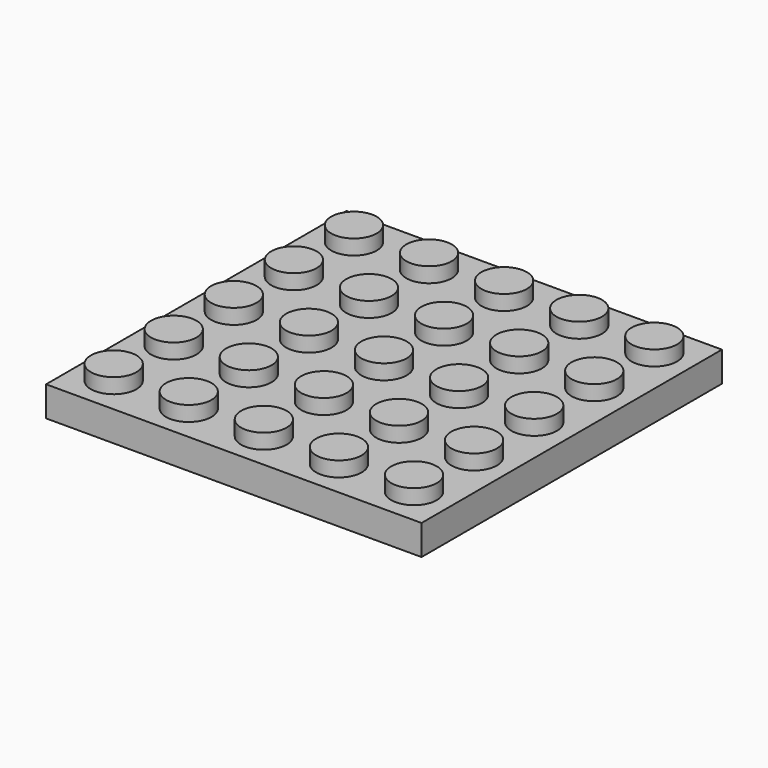
from build123d import *

# Parameters (mm, degrees)
F0_W     = 40
F0_H     = 40
F1_DEPTH = 3.2
F2_R     = 2.425
F3_DEPTH = 1.6


with BuildPart() as f1:
    # F0 (on Top) → F1 (new body)
    with BuildSketch(Plane.XY):
        Rectangle(F0_W, F0_H)
    extrude(amount=F1_DEPTH)

    # F2 (on face) → F3 (join)
    with BuildSketch(Plane.XY.offset(3.2)):
        with Locations((-16, -16)):
            Circle(F2_R)
        with Locations((-16, -8)):
            Circle(F2_R)
        with Locations((-16, 0)):
            Circle(F2_R)
        with Locations((-16, 8)):
            Circle(F2_R)
        with Locations((-16, 16)):
            Circle(F2_R)
        with Locations((-8, -16)):
            Circle(F2_R)
        with Locations((-8, -8)):
            Circle(F2_R)
        with Locations((-8, 0)):
            Circle(F2_R)
        with Locations((-8, 8)):
            Circle(F2_R)
        with Locations((-8, 16)):
            Circle(F2_R)
        with Locations((0, -16)):
            Circle(F2_R)
        with Locations((0, -8)):
            Circle(F2_R)
        Circle(F2_R)
        with Locations((0, 8)):
            Circle(F2_R)
        with Locations((0, 16)):
            Circle(F2_R)
        with Locations((8, -16)):
            Circle(F2_R)
        with Locations((8, -8)):
            Circle(F2_R)
        with Locations((8, 0)):
            Circle(F2_R)
        with Locations((8, 8)):
            Circle(F2_R)
        with Locations((8, 16)):
            Circle(F2_R)
        with Locations((16, -16)):
            Circle(F2_R)
        with Locations((16, -8)):
            Circle(F2_R)
        with Locations((16, 0)):
            Circle(F2_R)
        with Locations((16, 8)):
            Circle(F2_R)
        with Locations((16, 16)):
            Circle(F2_R)
    extrude(amount=F3_DEPTH)


solid = f1.part
